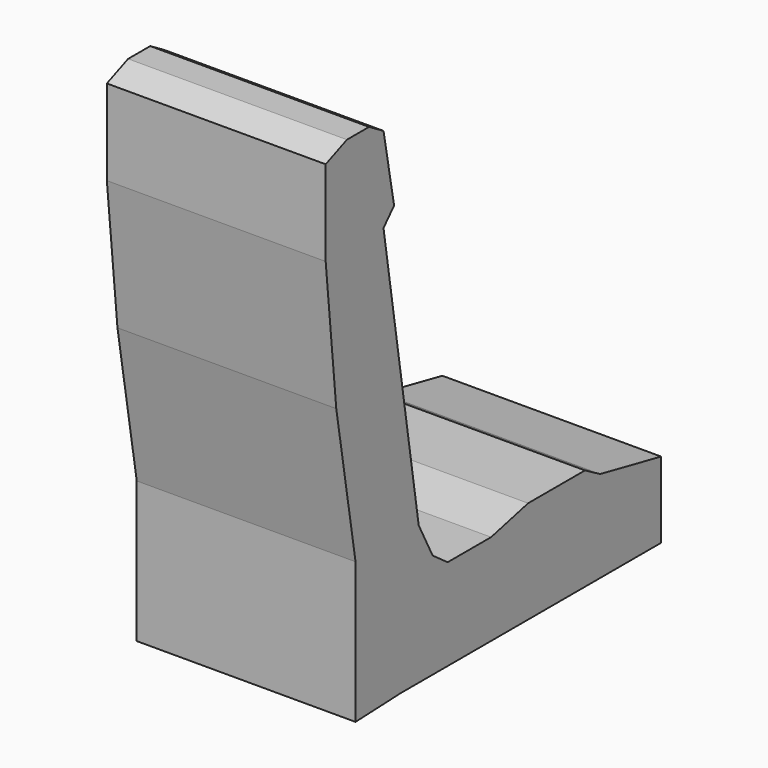
from build123d import *

# Parameters (mm, degrees)
F1_DEPTH = 127
F2_DEPTH = 76.2


with BuildPart() as f1:
    # F0 (on Right) → F1 (new body)
    with BuildSketch(Plane.YZ):
        Polygon((52.6268968752, -31.8920984864), (48.25777933, -29.3743014336), (40.0050003082, -29.3743014336), (31.7522212863, -29.3743014336), (21.0081070048, -31.9401308597), (8.4041413315, -31.9401308597), (4.0564504452, -28.8147889078), (0, -20.9816433489), (-10.2110654116, 43.9215712249), (-7.1337609552, 47.2786352038), (-10.2110654116, 63.7841969728), (-14.4073953852, 66.3019940257), (-20.8417680115, 66.3019940257), (-26.9963834435, 63.7841969728), (-26.9963834435, 43.9215712249), (-23.9190720022, 12.5889861956), (-18.3239672333, -20.9816433489), (-18.3239672333, -53.7130087614), (-5.1754736342, -53.1534962356), (70.3584477305, -53.1534962356), (70.3584477305, -45.0405962765), (70.3584477305, -35.5289168656), align=None)
    extrude(amount=F1_DEPTH)

    # F2 (cut): a face of the model
    f2_faces = [f1.faces().sort_by_distance(p)[0] for p in [
        (0, -23.9197614794, 28.4063291618),
    ]]
    extrude(f2_faces, amount=-F2_DEPTH, mode=Mode.SUBTRACT)


solid = f1.part
